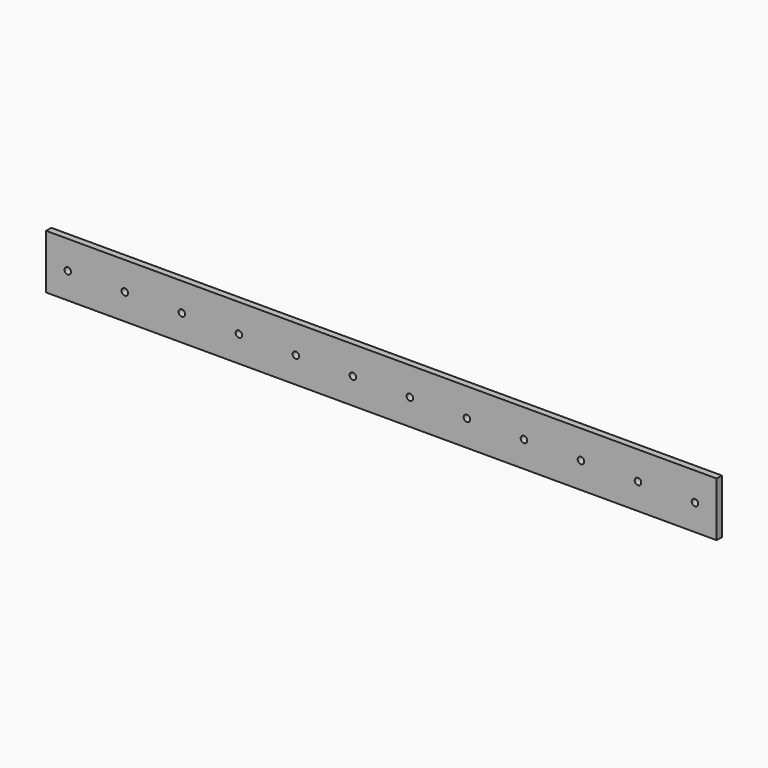
from build123d import *

# Parameters (mm, degrees)
F0_W     = 1235
F0_H     = 100
F0_R     = 6
F1_DEPTH = 12


with BuildPart() as f1:
    # F0 (on Front) → F1 (new body)
    with BuildSketch(Plane.XZ):
        with Locations((0, 50)):
            Rectangle(F0_W, F0_H)
        with Locations((-577.5, 48)):
            Circle(F0_R, mode=Mode.SUBTRACT)
        with Locations((-472.5, 48)):
            Circle(F0_R, mode=Mode.SUBTRACT)
        with Locations((-367.5, 48)):
            Circle(F0_R, mode=Mode.SUBTRACT)
        with Locations((-262.5, 48)):
            Circle(F0_R, mode=Mode.SUBTRACT)
        with Locations((-157.5, 48)):
            Circle(F0_R, mode=Mode.SUBTRACT)
        with Locations((-52.5, 48)):
            Circle(F0_R, mode=Mode.SUBTRACT)
        with Locations((52.5, 48)):
            Circle(F0_R, mode=Mode.SUBTRACT)
        with Locations((157.5, 48)):
            Circle(F0_R, mode=Mode.SUBTRACT)
        with Locations((262.5, 48)):
            Circle(F0_R, mode=Mode.SUBTRACT)
        with Locations((367.5, 48)):
            Circle(F0_R, mode=Mode.SUBTRACT)
        with Locations((472.5, 48)):
            Circle(F0_R, mode=Mode.SUBTRACT)
        with Locations((577.5, 48)):
            Circle(F0_R, mode=Mode.SUBTRACT)
    extrude(amount=F1_DEPTH)


solid = f1.part
